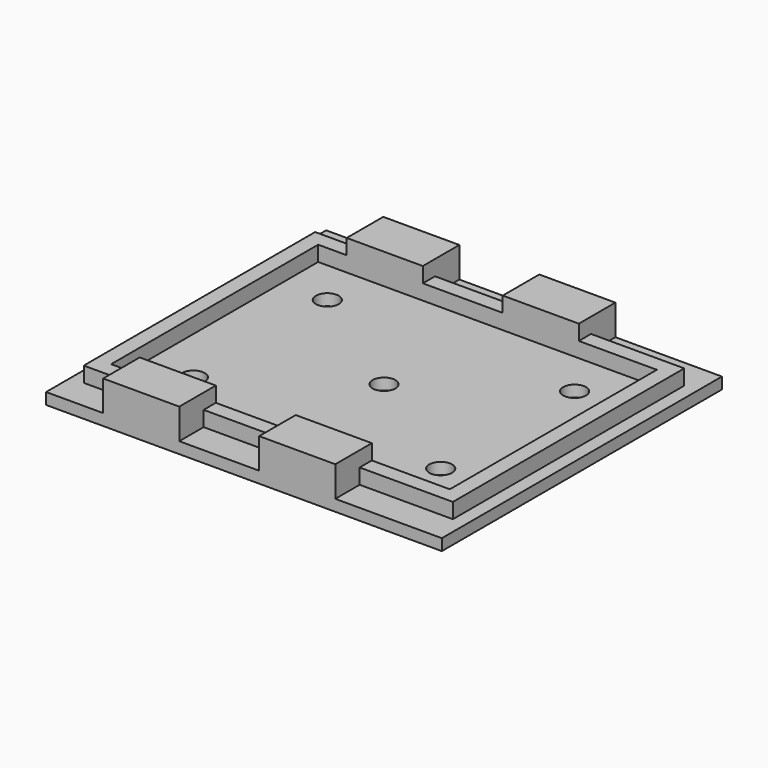
from build123d import *

# Parameters (mm, degrees)
F0_W      = 52
F0_H      = 46
F1_DEPTH  = 1.5
F2_W      = 48.5
F2_H      = 38
F2_W_2    = 44.5
F2_H_2    = 34
F3_DEPTH  = 2
F4_W      = 10
F4_H      = 4
F5_DEPTH  = 4
F6_R      = 1.5
F7_DEPTH  = 25
F8_DEPTH  = 2
F9_DEPTH  = 2
F10_DEPTH = 2
F11_DEPTH = 2


with BuildPart() as f1:
    # F0 (on Top) → F1 (new body)
    with BuildSketch(Plane.XY):
        with Locations((26, -23)):
            Rectangle(F0_W, F0_H)
    extrude(amount=F1_DEPTH)

    # F2 (on face) → F3 (join)
    with BuildSketch(Plane.XY.offset(1.5)):
        with Locations((26, -23)):
            Rectangle(F2_W, F2_H)
        with Locations((26, -23)):
            Rectangle(F2_W_2, F2_H_2, mode=Mode.SUBTRACT)
    extrude(amount=F3_DEPTH)

    # F4 (on face) → F5 (join)
    with BuildSketch(Plane.XY.offset(1.5)):
        with Locations((12.5, -44)):
            Rectangle(F4_W, F4_H)
        with Locations((33, -44)):
            Rectangle(F4_W, F4_H)
        with Locations((33, -2)):
            Rectangle(F4_W, F4_H)
        with Locations((12.5, -2)):
            Rectangle(F4_W, F4_H)
    extrude(amount=F5_DEPTH)

    # F6 (on face) → F7 (cut)
    with BuildSketch(Plane.XY.offset(1.5)):
        with Locations((9.75, -12)):
            Circle(F6_R)
        with Locations((42.25, -12)):
            Circle(F6_R)
        with Locations((26, -23)):
            Circle(F6_R)
        with Locations((9.75, -34)):
            Circle(F6_R)
        with Locations((42.25, -34)):
            Circle(F6_R)
    extrude(amount=-F7_DEPTH, mode=Mode.SUBTRACT)

    # F8 (add, through all): a face of the model
    f8_faces = [f1.faces().sort_by_distance(p)[0] for p in [
        (12.5, -4, 4.5),
    ]]
    extrude(f8_faces, amount=F8_DEPTH)

    # F9 (add, through all): a face of the model
    f9_faces = [f1.faces().sort_by_distance(p)[0] for p in [
        (33, -4, 4.5),
    ]]
    extrude(f9_faces, amount=F9_DEPTH)

    # F10 (add, through all): a face of the model
    f10_faces = [f1.faces().sort_by_distance(p)[0] for p in [
        (33, -42, 4.5),
    ]]
    extrude(f10_faces, amount=F10_DEPTH)

    # F11 (add, through all): a face of the model
    f11_faces = [f1.faces().sort_by_distance(p)[0] for p in [
        (12.5, -42, 4.5),
    ]]
    extrude(f11_faces, amount=F11_DEPTH)


solid = f1.part
